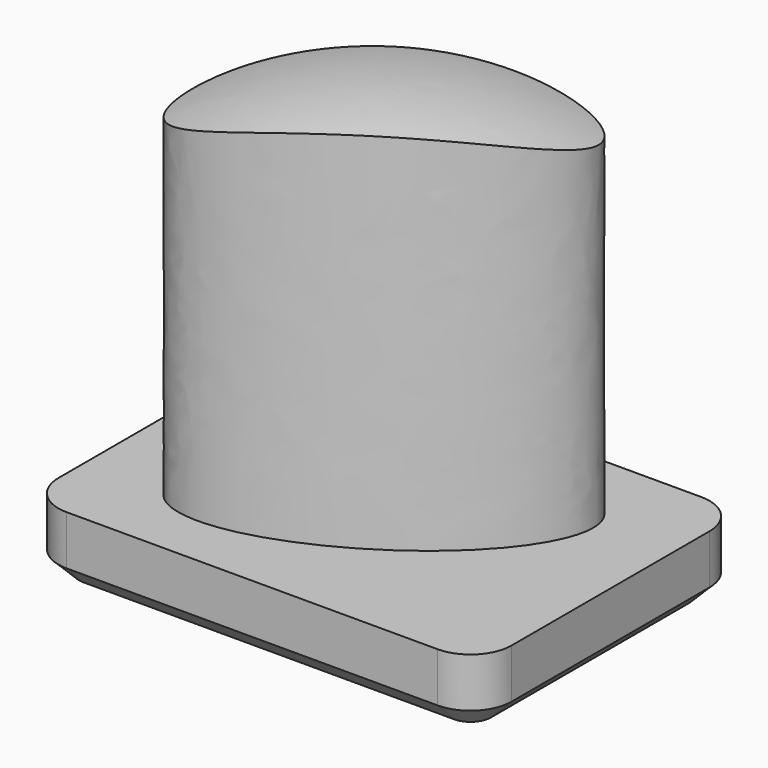
from build123d import *

# Parameters (mm, degrees)
SKETCH_W        = 30
SKETCH_H        = 30
POCKET_DEPTH    = 10.001
SKETCH001_W     = 10
SKETCH001_H     = 10
POCKET001_DEPTH = 1
PAD_DEPTH       = 1.7
POCKET002_DEPTH = 5
CHAMFER_SIZE    = 0.5


with BuildPart() as part:
    # Sphere → Sphere (revolve)
    with BuildSketch(Plane.XZ):
        with BuildLine():
            ThreePointArc((10, 0), (7.071068, 7.071068), (0, 10))
            Line((0, 10), (0, 0))
            Line((0, 0), (10, 0))
        make_face()
    revolve(axis=Axis((0, 0, 0), (0, 0, 1)))

    # Sketch (on Face2 of Sphere) → Pocket (cut, through all)
    with BuildSketch(Plane(origin=(0, 0, 0), x_dir=(1, 0, 0), z_dir=(0, 0, -1))):
        Rectangle(SKETCH_W, SKETCH_H)
        with BuildLine():
            add(Edge.make_bspline(
                [(3.557912, -2.231874), (5.260669, 0.482554), (-0.927577, 2.473151), (-7.115824, 4.463748), (-2.630335, -0.241277), (1.855155, -4.946302), (3.557912, -2.231874)],
                knots=[0, 0, 0, 2.094395, 2.094395, 4.18879, 4.18879, 6.283185, 6.283185, 6.283185], degree=2, weights=[1, 0.5, 1, 0.5, 1, 0.5, 1]))
        make_face(mode=Mode.SUBTRACT)
    extrude(amount=-POCKET_DEPTH, mode=Mode.SUBTRACT)

    # Sketch001 (on Face3 of Pocket) → Pocket001 (cut)
    with BuildSketch(Plane(origin=(0, 0, 0), x_dir=(1, 0, 0), z_dir=(0, 0, -1))):
        Rectangle(SKETCH001_W, SKETCH001_H)
    extrude(amount=-POCKET001_DEPTH, mode=Mode.SUBTRACT)

    # Sketch002 (on Face3 of Pocket001) → Pad (join)
    with BuildSketch(Plane(origin=(0, 0, 1), x_dir=(1, 0, 0), z_dir=(0, 0, -1))):
        with BuildLine():
            Line((-4.5, 4), (4.5, 4))
            ThreePointArc((5.5, 3), (5.207107, 3.707107), (4.5, 4))
            Line((5.5, 3), (5.5, -3))
            ThreePointArc((4.5, -4), (5.207107, -3.707107), (5.5, -3))
            Line((4.5, -4), (-4.5, -4))
            ThreePointArc((-5.5, -3), (-5.207107, -3.707107), (-4.5, -4))
            Line((-5.5, -3), (-5.5, 3))
            ThreePointArc((-4.5, 4), (-5.207107, 3.707107), (-5.5, 3))
        make_face()
    extrude(amount=PAD_DEPTH)

    # Sketch003 (on Face5 of Pad) → Pocket002 (cut)
    with BuildSketch(Plane(origin=(0, 0, -0.7), x_dir=(1, 0, 0), z_dir=(0, 0, -1))):
        Polygon((-0.357873, 1.513911), (1.513911, 0.357873), (0.357873, -1.513911), (-1.513911, -0.357873), align=None)
    extrude(amount=-POCKET002_DEPTH, mode=Mode.SUBTRACT)

    # Chamfer
    chamfer_edges = [part.edges().sort_by_distance(p)[0] for p in [
        (-5.5, 0, -0.7),
        (-5.207107, 3.707107, -0.7),
        (-5.207107, -3.707107, -0.7),
        (0, 4, -0.7),
        (0, -4, -0.7),
        (5.207107, 3.707107, -0.7),
        (5.207107, -3.707107, -0.7),
        (5.5, 0, -0.7),
        (0.578019, -0.935892, -0.7),
        (0.935892, 0.578019, -0.7),
        (-0.578019, 0.935892, -0.7),
        (-0.935892, -0.578019, -0.7),
    ]]
    chamfer(chamfer_edges, length=CHAMFER_SIZE)


solid = part.part
